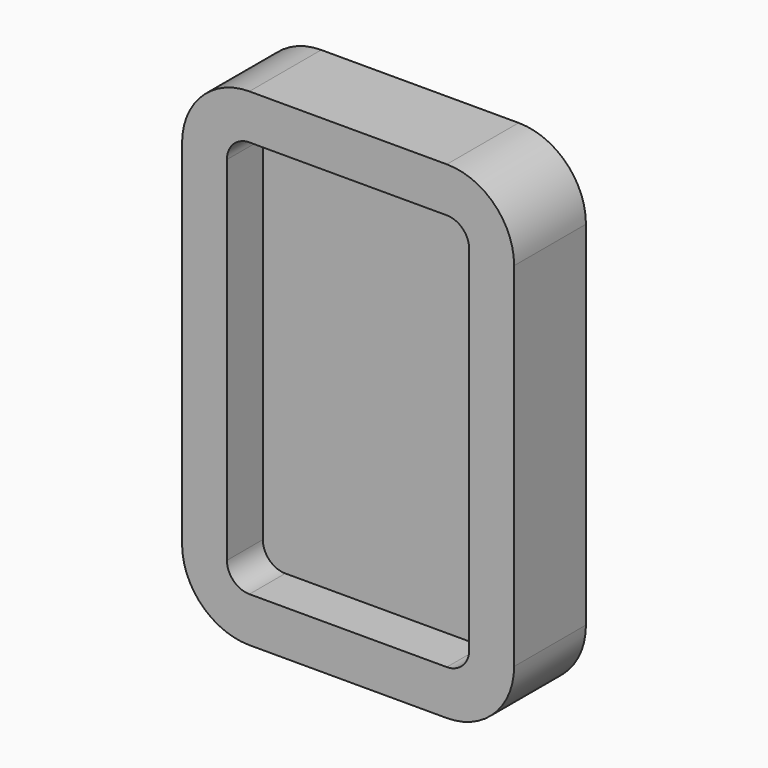
from build123d import *

# Parameters (mm, degrees)
F1_DEPTH = 5.08
F2_T     = -2.54


with BuildPart() as f1:
    # F0 (on Front) → F1 (new body)
    with BuildSketch(Plane.XZ):
        with BuildLine():
            Line((-5.585341, -13.793164), (5.585341, -13.793164))
            ThreePointArc((5.585341, -13.793164), (8.279418, -12.677241), (9.395341, -9.983164))
            Line((9.395341, -9.983164), (9.395341, 9.983164))
            ThreePointArc((9.395341, 9.983164), (8.279418, 12.677241), (5.585341, 13.793164))
            Line((5.585341, 13.793164), (-5.585341, 13.793164))
            ThreePointArc((-5.585341, 13.793164), (-8.279418, 12.677241), (-9.395341, 9.983164))
            Line((-9.395341, 9.983164), (-9.395341, -9.983164))
            ThreePointArc((-9.395341, -9.983164), (-8.279418, -12.677241), (-5.585341, -13.793164))
        make_face()
    extrude(amount=F1_DEPTH)

    # F2
    f2_openings = [f1.faces().sort_by_distance(p)[0] for p in [
        (0, -5.08, 0),
    ]]
    offset(amount=F2_T, openings=f2_openings)


solid = f1.part
